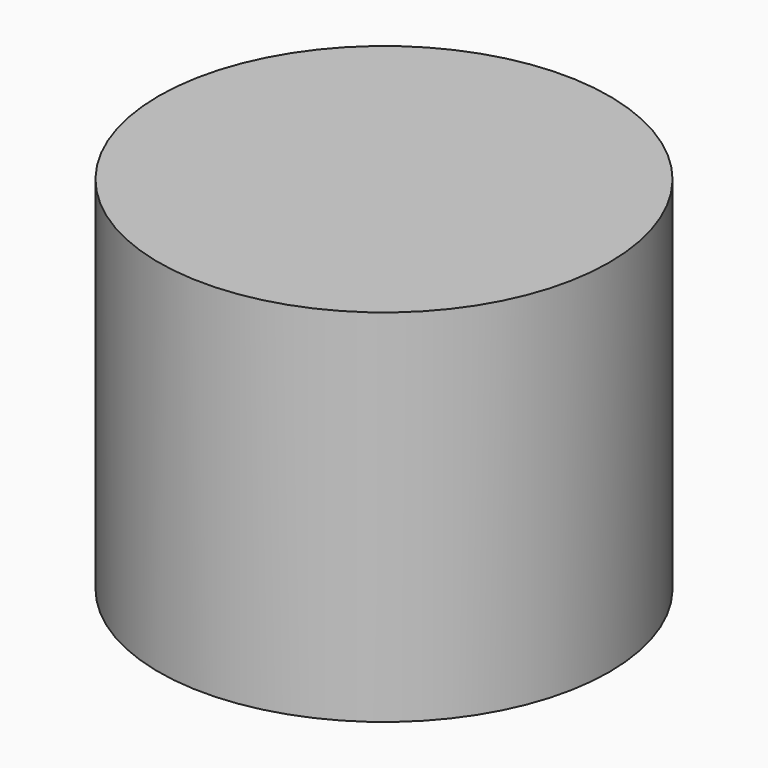
from build123d import *

# Parameters (mm, degrees)
F0_R     = 15
F1_DEPTH = 24
F2_R     = 14
F3_DEPTH = 22


with BuildPart() as f1:
    # F0 (on Top) → F1 (new body)
    with BuildSketch(Plane.XY):
        Circle(F0_R)
    extrude(amount=-F1_DEPTH)

    # F2 (on face) → F3 (cut)
    with BuildSketch(Plane(origin=(0, 0, -24), x_dir=(1, 0, 0), z_dir=(0, 0, -1))):
        Circle(F2_R)
    extrude(amount=-F3_DEPTH, mode=Mode.SUBTRACT)


solid = f1.part
